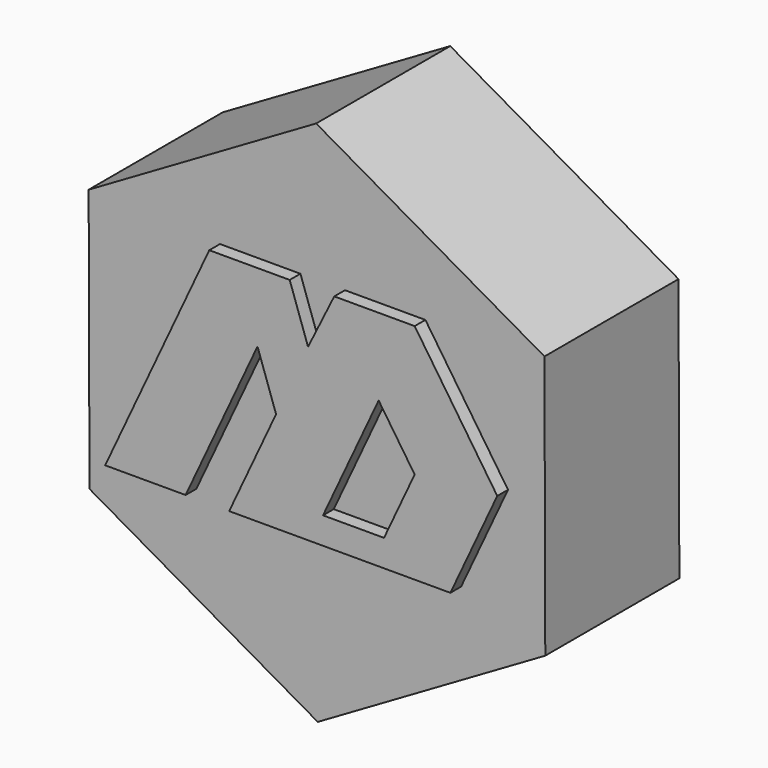
from build123d import *

# Parameters (mm, degrees)
F1_DEPTH = 25
F2_DEPTH = 2


with BuildPart() as f1:
    # F0 (on Front) → F1 (new body)
    with BuildSketch(Plane.XZ):
        Polygon((63.9349460241, 34.2754808194), (29.8743164923, 53.8), (-4.0647278806, 34.0648891469), (-3.9431427218, -5.1947408868), (30.11748681, -24.7192600674), (64.0565311829, -4.9841492143), align=None)
        Polygon((12, 0), (0, 0), (15.5280450166, 33.3), (27.5280450166, 33.3), (30.2629645171, 25.4), (34.1726139616, 33.3), (46.1726139616, 33.3), (58.4946148723, 15), (51.5, 0), (18.5, 0), (25.4946148723, 15), (22.7250761376, 23), align=None, mode=Mode.SUBTRACT)
        Polygon((15.5280450166, 33.3), (0, 0), (12, 0), (22.7250761376, 23), (25.4946148723, 15), (18.5, 0), (51.5, 0), (58.4946148723, 15), (46.1726139616, 33.3), (34.1726139616, 33.3), (30.2629645171, 25.4), (27.5280450166, 33.3), align=None)
        Polygon((41.6, 4), (32.5, 4), (40.7960668171, 21.7909727022), (46.1726139616, 13.8060022856), align=None, mode=Mode.SUBTRACT)
        Polygon((40.7960668171, 21.7909727022), (32.5, 4), (41.6, 4), (46.1726139616, 13.8060022856), align=None)
    extrude(amount=-F1_DEPTH)

    # F0 (on Front) → F2 (join)
    with BuildSketch(Plane.XZ):
        Polygon((15.5280450166, 33.3), (0, 0), (12, 0), (22.7250761376, 23), (25.4946148723, 15), (18.5, 0), (51.5, 0), (58.4946148723, 15), (46.1726139616, 33.3), (34.1726139616, 33.3), (30.2629645171, 25.4), (27.5280450166, 33.3), align=None)
        Polygon((41.6, 4), (32.5, 4), (40.7960668171, 21.7909727022), (46.1726139616, 13.8060022856), align=None, mode=Mode.SUBTRACT)
    extrude(amount=F2_DEPTH)


solid = f1.part
